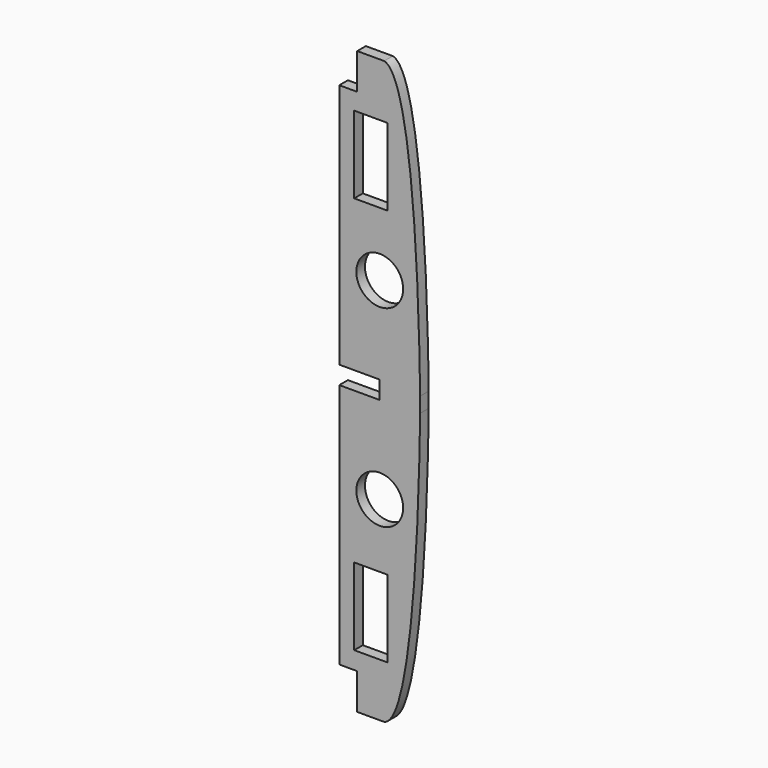
from build123d import *

# Parameters (mm, degrees)
F0_W     = 18.579781
F0_H     = 43.004439
F0_R     = 13.03372
F0_H_2   = 43.004438
F1_DEPTH = 6


with BuildPart() as f1:
    # F0 (on Front) → F1 (new body)
    with BuildSketch(Plane.XZ):
        with BuildLine():
            Line((469.384881, 55.983145), (469.384881, 60.218248))
            Line((469.384881, 60.218248), (446.884881, 60.218248))
            Line((446.884881, 60.218248), (446.884881, 55.218248))
            Line((446.884881, 55.218248), (424.384881, 55.218248))
            Line((424.384881, 55.218248), (424.384881, -81.781752))
            Line((424.384881, -81.781752), (434.384881, -81.781752))
            Line((434.384881, -81.781752), (434.384881, -101.781752))
            Line((434.384881, -101.781752), (449.384881, -101.781752))
            add(Edge.make_bspline(
                [(449.384881, -101.781752), (466.863722, -97.534394), (469.173006, 29.991541), (469.384881, 55.983145)],
                knots=[0, 0, 0, 0, 142.653474, 142.653474, 142.653474, 142.653474], degree=3))
        make_face()
        with Locations((441.996842, -50.5303)):
            Rectangle(F0_W, F0_H, mode=Mode.SUBTRACT)
        with Locations((446.911335, 6.56864)):
            Circle(F0_R, mode=Mode.SUBTRACT)
        with BuildLine():
            add(Edge.make_bspline(
                [(449.384881, 222.218248), (466.863722, 217.97089), (469.173006, 90.444955), (469.384881, 64.453351)],
                knots=[0, 0, 0, 0, 142.653474, 142.653474, 142.653474, 142.653474], degree=3))
            Line((449.384881, 222.218248), (434.384881, 222.218248))
            Line((434.384881, 222.218248), (434.384881, 202.218248))
            Line((434.384881, 202.218248), (424.384881, 202.218248))
            Line((424.384881, 202.218248), (424.384881, 65.218248))
            Line((424.384881, 65.218248), (446.884881, 65.218248))
            Line((446.884881, 65.218248), (446.884881, 60.218248))
            Line((446.884881, 60.218248), (469.384881, 60.218248))
            Line((469.384881, 60.218248), (469.384881, 64.453351))
        make_face()
        with Locations((441.996842, 170.966796)):
            Rectangle(F0_W, F0_H_2, mode=Mode.SUBTRACT)
        with Locations((446.911335, 113.867856)):
            Circle(F0_R, mode=Mode.SUBTRACT)
    extrude(amount=F1_DEPTH)


solid = f1.part
